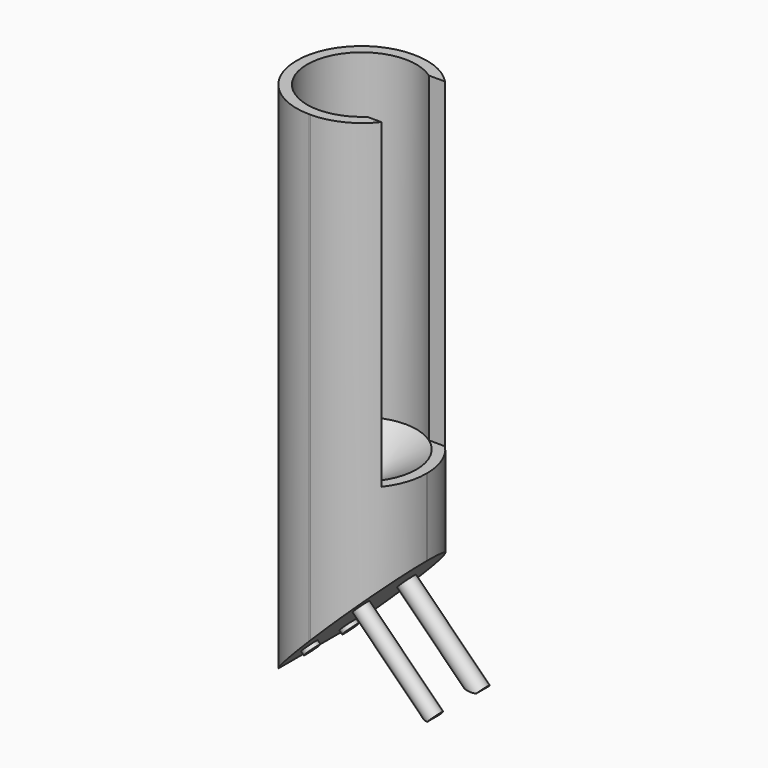
from build123d import *

# Parameters (mm, degrees)
F0_W      = 10.1233841851
F0_H      = 10.0899571553
F1_DEPTH  = 40
F3_D      = 8.5
F3_DEPTH  = 25
F3_TIP    = 2.5536576309
F4_SIZE   = 9
F5_R      = 0.6119078038
F5_R_2    = 0.6255064778
F5_R_3    = 0.6950065758
F5_R_4    = 0.6250316631
F6_DEPTH  = 0.3
F8_DEPTH  = 25
F9_R      = 5
F10_DEPTH = 7.8
F11_W     = 25.9334780276
F11_H     = 20.5789422616
F12_DEPTH = 25


with BuildPart() as f1:
    # F0 (on Top) → F1 (new body)
    with BuildSketch(Plane.XY):
        Rectangle(F0_W, F0_H)
    extrude(amount=F1_DEPTH)

    # F3
    with Locations(Plane.XY.offset(40)):
        with Locations((0, 0)):
            Hole(F3_D / 2, depth=F3_DEPTH)
            with Locations((0, 0, -(F3_DEPTH + F3_TIP / 2))):  # 118° drill point
                Cone(0, F3_D / 2, F3_TIP, mode=Mode.SUBTRACT)

    # F4
    f4_edges = [f1.edges().sort_by_distance(p)[0] for p in [
        (5.061692, 0, 0),
    ]]
    chamfer(f4_edges, length=F4_SIZE)

    # F5 (on face) → F6 (join)
    with BuildSketch(Plane(origin=(-1.9691539537, 0, 1.9691539537), x_dir=(0, 1, 0), z_dir=(0.7071067812, 0, -0.7071067812))):
        with Locations((-2.6314246934, 0)):
            Circle(F5_R)
        with Locations((1.7054068157, -0.6661886582)):
            Circle(F5_R_2)
        with Locations((2.3579068948, 5.0519071519)):
            Circle(F5_R_3)
        with Locations((-2.431909088, 5.4562026635)):
            Circle(F5_R_4)
    extrude(amount=F6_DEPTH)

    # F7 (on face) → F8 (cut)
    with BuildSketch(Plane.XY.offset(40)):
        with BuildLine():
            Line((2.8953096145, -3.1112187702), (5.0616920926, -3.1112187702))
            Line((5.0616920926, -3.1112187702), (5.0616920926, 3.4764062685))
            Line((5.0616920926, 3.4764062685), (2.44481072, 3.4764062685))
            ThreePointArc((2.44481072, 3.4764062685), (3.7717996739, 1.9585778565), (4.25, 0))
            ThreePointArc((4.25, 0), (3.8966373876, -1.6966782456), (2.8953096145, -3.1112187702))
        make_face()
        with BuildLine():
            Line((2.44481072, -3.1112187702), (2.8953096145, -3.1112187702))
            ThreePointArc((2.8953096145, -3.1112187702), (3.8966373876, -1.6966782456), (4.25, 0))
            ThreePointArc((4.25, 0), (3.7717996739, 1.9585778565), (2.44481072, 3.4764062685))
            Line((2.44481072, 3.4764062685), (2.44481072, -3.1112187702))
        make_face()
        with BuildLine():
            Line((2.8953096145, -3.1112187702), (5.0616920926, -3.1112187702))
            Line((5.0616920926, -3.1112187702), (5.0616920926, 3.4764062685))
            Line((5.0616920926, 3.4764062685), (2.44481072, 3.4764062685))
            ThreePointArc((2.44481072, 3.4764062685), (3.7717996739, 1.9585778565), (4.25, 0))
            ThreePointArc((4.25, 0), (3.8966373876, -1.6966782456), (2.8953096145, -3.1112187702))
        make_face()
    extrude(amount=-F8_DEPTH, mode=Mode.SUBTRACT)

    # F9
    f9_edges = [f1.edges().sort_by_distance(p)[0] for p in [
        (-5.061692, 5.044979, 20),
        (-5.061692, -5.044979, 20),
        (5.061692, -5.044979, 24.5),
        (5.061692, 5.044979, 24.5),
    ]]
    fillet(f9_edges, radius=F9_R)

    # F10 (add): faces of the model
    f10_faces = [f1.faces().sort_by_distance(p)[0] for p in [
        (1.8152158857, 2.3579068948, 5.3292597244),
        (2.1010959835, -2.431909088, 5.6151398222),
    ]]
    extrude(f10_faces, amount=F10_DEPTH)

    # F11 (on face) → F12 (cut)
    with BuildSketch(Plane(origin=(0, 0, 0), x_dir=(1, 0, 0), z_dir=(0, 0, -1))):
        with Locations((1.6984669492, -1.4439118095)):
            Rectangle(F11_W, F11_H)
        with BuildLine():
            Line((-3.9383079074, 3.2028021674), (-3.9383079074, -3.2028021674))
            ThreePointArc((-3.9383079074, -3.2028021674), (-4.7724817862, -1.7208247707), (-5.0616920926, -0.0449785776))
            Line((-5.0616920926, -0.0449785776), (-5.0616920926, 0.0449785776))
            ThreePointArc((-5.0616920926, 0.0449785776), (-4.7724817862, 1.7208247707), (-3.9383079074, 3.2028021674))
        make_face(mode=Mode.SUBTRACT)
    extrude(amount=F12_DEPTH, mode=Mode.SUBTRACT)


solid = f1.part
